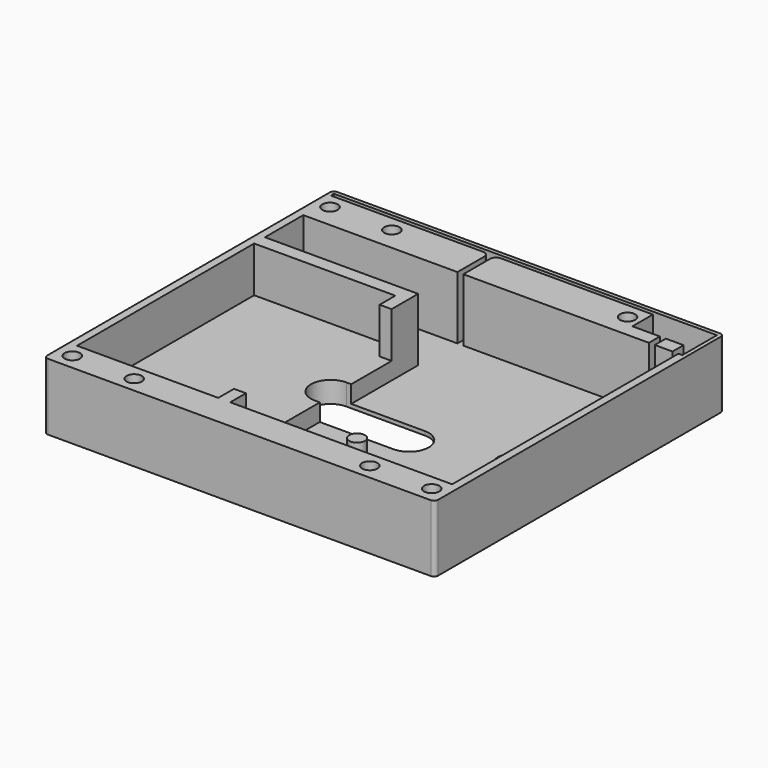
from build123d import *

# Parameters (mm, degrees)
PAD033_DEPTH    = 1
PAD034_DEPTH    = 17
POCKET020_DEPTH = 16
POCKET021_DEPTH = 11.6
SKETCH057_R     = 4
SKETCH057_R_2   = 1.95
SKETCH057_R_3   = 2
PAD035_DEPTH    = 5.5
SKETCH058_R     = 1.95
POCKET022_DEPTH = 8
POCKET023_DEPTH = 17


with BuildPart() as part:
    # Sketch053 → Pad033 (new body)
    with BuildSketch(Plane.XY):
        with BuildLine():
            Line((-49.75, 45), (-49.75, -45))
            ThreePointArc((-49.75, -45), (-49.457107, -45.707107), (-48.75, -46))
            Line((-48.75, -46), (48.75, -46))
            ThreePointArc((48.75, -46), (49.457107, -45.707107), (49.75, -45))
            Line((49.75, -45), (49.75, 45))
            ThreePointArc((49.75, 45), (49.457107, 45.707107), (48.75, 46))
            Line((48.75, 46), (-48.75, 46))
            ThreePointArc((-48.75, 46), (-49.457107, 45.707107), (-49.75, 45))
        make_face()
    extrude(amount=PAD033_DEPTH)

    # Sketch054 → Pad034 (join)
    with BuildSketch(Plane.XY):
        with BuildLine():
            Line((-49.75, 45), (-49.75, -45))
            ThreePointArc((-49.75, -45), (-49.457107, -45.707107), (-48.75, -46))
            Line((-48.75, -46), (48.75, -46))
            ThreePointArc((48.75, -46), (49.457107, -45.707107), (49.75, -45))
            Line((49.75, -45), (49.75, 45))
            ThreePointArc((49.75, 45), (49.457107, 45.707107), (48.75, 46))
            Line((48.75, 46), (-48.75, 46))
            ThreePointArc((-48.75, 46), (-49.457107, 45.707107), (-49.75, 45))
        make_face()
        Polygon((-47.75, 34), (-47.75, 21.8), (-8.75, 21.8), (-8.75, -38), (47.75, -38), (47.75, 34), align=None, mode=Mode.SUBTRACT)
    extrude(amount=PAD034_DEPTH)

    # Sketch055 (on Face14 of Pad034) → Pocket020 (cut)
    with BuildSketch(Plane.XY.offset(17)):
        with BuildLine():
            Line((-48.75, 45), (-48.75, 44))
            Line((-48.75, 44), (-10, 44))
            ThreePointArc((-8.5, 42.5), (-8.93934, 43.56066), (-10, 44))
            Line((-8.5, 42.5), (-8.5, 34))
            Line((-8.5, 34), (-7, 34))
            Line((-7, 34), (-7, 42.5))
            ThreePointArc((-5.5, 44), (-6.56066, 43.56066), (-7, 42.5))
            Line((-5.5, 44), (33.25, 44))
            Line((33.25, 44), (33.25, 37.5))
            Line((33.25, 37.5), (40.25, 37.5))
            Line((40.25, 37.5), (40.25, 34))
            Line((41.75, 34), (40.25, 34))
            Line((41.75, 37.5), (41.75, 34))
            Line((41.75, 37.5), (46.25, 37.5))
            Line((46.25, 37.5), (46.25, 34))
            Line((46.25, 34), (48.75, 34))
            Line((48.75, 45), (48.75, 34))
            Line((48.75, 45), (-48.75, 45))
        make_face()
    extrude(amount=-POCKET020_DEPTH, mode=Mode.SUBTRACT)

    # Sketch056 (on Face14 of Pocket020) → Pocket021 (cut)
    with BuildSketch(Plane.XY.offset(17)):
        Polygon((-11.794, 18.358), (-47.75, 18.358), (-47.75, -38), (-11.794, -38), (-11.794, -33), (-8.75, -33), (-8.75, 13.358), (-11.794, 13.358), align=None)
    extrude(amount=-POCKET021_DEPTH, mode=Mode.SUBTRACT)

    # Sketch057 → Pad035 (join)
    with BuildSketch(Plane.XY):
        with Locations((37.75, -6)):
            Circle(SKETCH057_R)
        with Locations((37.75, -6)):
            Circle(SKETCH057_R_2, mode=Mode.SUBTRACT)
        with Locations((37.75, -28)):
            Circle(SKETCH057_R)
        with Locations((37.75, -28)):
            Circle(SKETCH057_R_2, mode=Mode.SUBTRACT)
        with Locations((6.75, -17)):
            Circle(SKETCH057_R_3)
    extrude(amount=PAD035_DEPTH)

    # Sketch058 (on Face14 of Pad035) → Pocket022 (cut)
    with BuildSketch(Plane.XY.offset(17)):
        with Locations((-45.75, -42)):
            Circle(SKETCH058_R)
        with Locations((-30, -42)):
            Circle(SKETCH058_R)
        with Locations((30, -42)):
            Circle(SKETCH058_R)
        with Locations((-45.75, 40)):
            Circle(SKETCH058_R)
        with Locations((-30, 40)):
            Circle(SKETCH058_R)
        with Locations((30, 40)):
            Circle(SKETCH058_R)
        with Locations((45.75, -42)):
            Circle(SKETCH058_R)
    extrude(amount=-POCKET022_DEPTH, mode=Mode.SUBTRACT)

    # Sketch060 → Pocket023 (cut)
    with BuildSketch(Plane.XY):
        with BuildLine():
            ThreePointArc((-10, 0.5), (-15, -4.5), (-10, -9.5))
            Line((-10, -9.5), (10, -9.5))
            ThreePointArc((10, -9.5), (15, -4.5), (10, 0.5))
            Line((-10, 0.5), (10, 0.5))
        make_face()
    extrude(amount=POCKET023_DEPTH, mode=Mode.SUBTRACT)


solid = part.part
